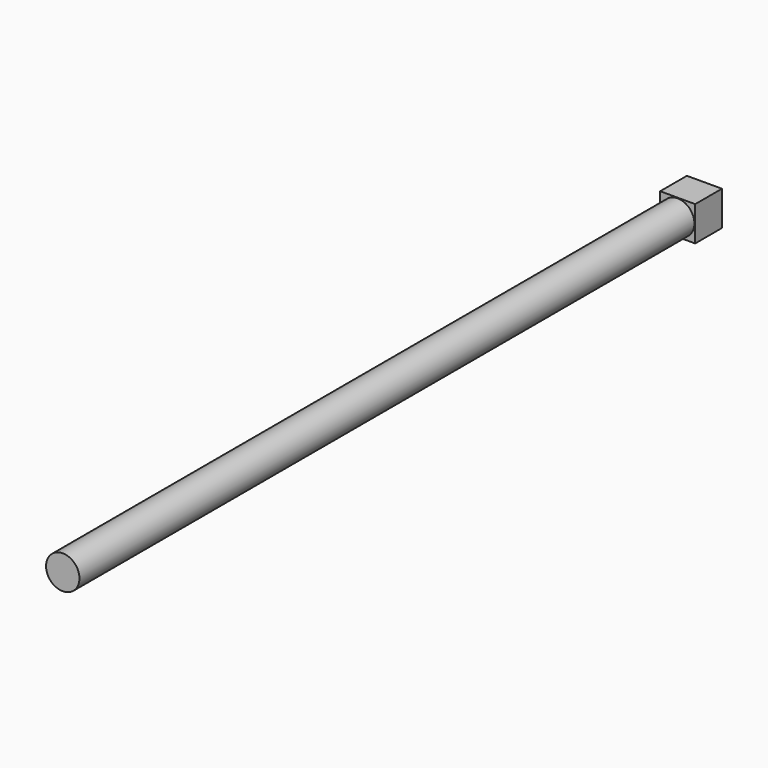
from build123d import *

# Parameters (mm, degrees)
F0_R     = 12.7
F1_DEPTH = 584.2
F0_W     = 26.6134832054
F0_H     = 26.3192448765
F2_DEPTH = 25.4


with BuildPart() as f1:
    # F0 (on Front) → F1 (new body)
    with BuildSketch(Plane.XZ):
        Circle(F0_R)
    extrude(amount=F1_DEPTH)

    # F0 (on Front) → F2 (join)
    with BuildSketch(Plane.XZ):
        Rectangle(F0_W, F0_H)
        Circle(F0_R, mode=Mode.SUBTRACT)
        Circle(F0_R)
    extrude(amount=-F2_DEPTH)


solid = f1.part
